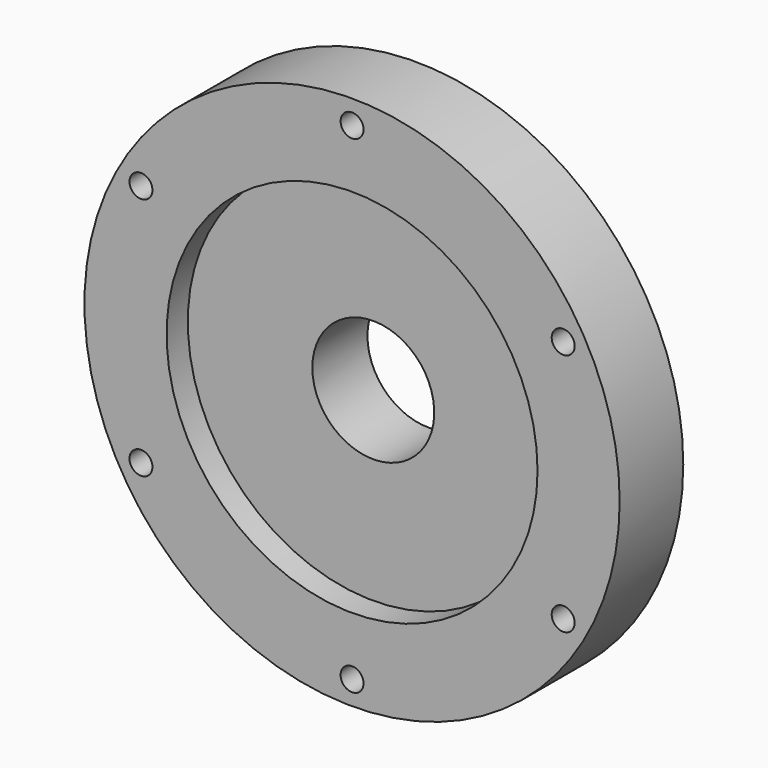
from build123d import *

# Parameters (mm, degrees)
F0_R          = 64.135
F1_DEPTH      = 19.05
F3_R          = 34.29
F4_DEPTH      = 3.81
F5_R          = 12.7
F6_DEPTH      = 22.861
F2_R          = 14.605
F8_DEPTH      = 19.051
F8_DEPTH_BACK = 3.811
F7_R          = 44.45
F9_DEPTH      = 6.35
F12_DEPTH     = 12.7
F13_D         = 5.5


with BuildPart() as f1:
    # F0 (on Front) → F1 (new body)
    with BuildSketch(Plane.XZ):
        Circle(F0_R)
    extrude(amount=F1_DEPTH)

    # F3 (on face) → F4 (join)
    with BuildSketch(Plane(origin=(0, 0, 0), x_dir=(-1, 0, 0), z_dir=(0, 1, 0))):
        Circle(F3_R)
    extrude(amount=F4_DEPTH)

    # F5 (on face) → F6 (cut, through all)
    with BuildSketch(Plane.XZ.offset(19.05)):
        Circle(F5_R)
    extrude(amount=-F6_DEPTH, mode=Mode.SUBTRACT)

    # F2 (on face) → F8 (cut, two sides)
    with BuildSketch(Plane(origin=(0, 0, 0), x_dir=(-1, 0, 0), z_dir=(0, 1, 0))) as f8_sk:
        Circle(F2_R)
    extrude(amount=-F8_DEPTH, mode=Mode.SUBTRACT)
    extrude(f8_sk.sketch, amount=F8_DEPTH_BACK, mode=Mode.SUBTRACT)

    # F7 (on face) → F9 (cut)
    with BuildSketch(Plane.XZ.offset(19.05)):
        Circle(F7_R)
    extrude(amount=-F9_DEPTH, mode=Mode.SUBTRACT)

    # F11 (on face) → F12 (cut)
    with BuildSketch(Plane(origin=(0, 0, 0), x_dir=(-1, 0, 0), z_dir=(0, 1, 0))):
        Polygon((4.113620668, -60.795), (4.113620668, -56.045), (0, -53.67), (-4.113620668, -56.045), (-4.113620668, -60.795), (0, -63.17), align=None)
        Polygon((46.4795834211, -26.835), (46.4795834211, -31.585), (50.5932040891, -33.96), (54.7068247571, -31.585), (54.7068247571, -26.835), (50.5932040891, -24.46), align=None)
        Polygon((46.4795834211, 26.835), (50.5932040891, 24.46), (54.7068247571, 26.835), (54.7068247571, 31.585), (50.5932040891, 33.96), (46.4795834211, 31.585), align=None)
        Polygon((0, 53.67), (4.113620668, 56.045), (4.113620668, 60.795), (0, 63.17), (-4.113620668, 60.795), (-4.113620668, 56.045), align=None)
        Polygon((-46.4795834211, 26.835), (-46.4795834211, 31.585), (-50.5932040891, 33.96), (-54.7068247571, 31.585), (-54.7068247571, 26.835), (-50.5932040891, 24.46), align=None)
        Polygon((-46.4795834211, -26.835), (-50.5932040891, -24.46), (-54.7068247571, -26.835), (-54.7068247571, -31.585), (-50.5932040891, -33.96), (-46.4795834211, -31.585), align=None)
    extrude(amount=-F12_DEPTH, mode=Mode.SUBTRACT)

    # F13 (through all)
    with Locations(Plane(origin=(0, 0, 0), x_dir=(-1, 0, 0), z_dir=(0, 1, 0))):
        with Locations((50.5932040891, 29.21), (50.5932040891, -29.21), (0, -58.42), (-50.5932040891, -29.21), (-50.5932040891, 29.21), (0, 58.42)):
            Hole(F13_D / 2)


solid = f1.part
